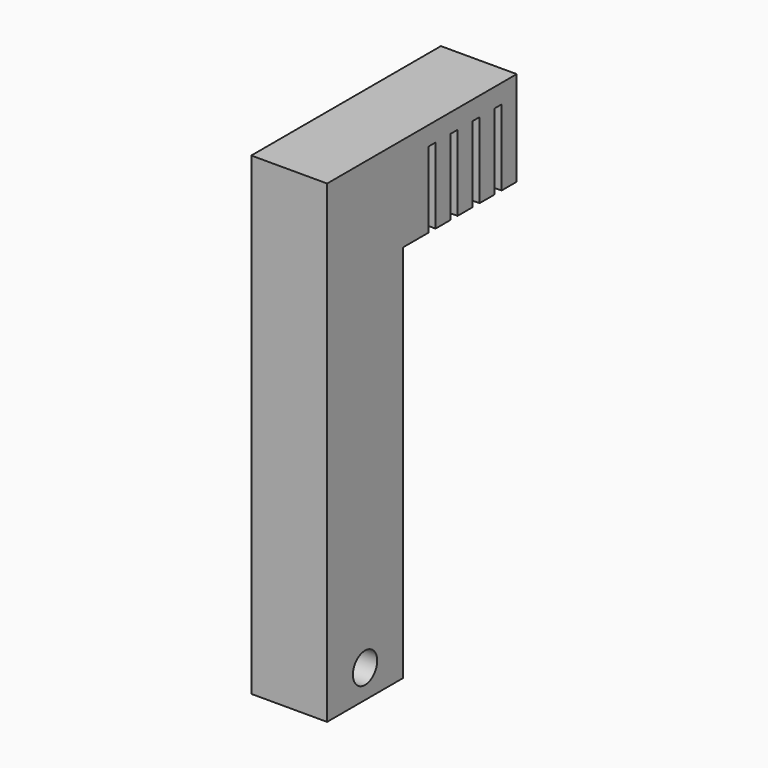
from build123d import *

# Parameters (mm, degrees)
F0_W     = 8
F0_H     = 25
F1_DEPTH = 10
F2_W     = 8
F2_H     = 0.9
F3_DEPTH = 8
F4_W     = 8
F4_H     = 10
F5_DEPTH = 40
F6_R     = 1.6
F7_DEPTH = 8.001


with BuildPart() as f1:
    # F0 (on Top) → F1 (new body)
    with BuildSketch(Plane.XY):
        Rectangle(F0_W, F0_H)
    extrude(amount=F1_DEPTH)

    # F2 (on face) → F3 (cut)
    with BuildSketch(Plane(origin=(0, 0, 0), x_dir=(1, 0, 0), z_dir=(0, 0, -1))):
        with Locations((0, -10.05)):
            Rectangle(F2_W, F2_H)
        with Locations((0, -7.15)):
            Rectangle(F2_W, F2_H)
        with Locations((0, -4.25)):
            Rectangle(F2_W, F2_H)
        with Locations((0, -1.35)):
            Rectangle(F2_W, F2_H)
    extrude(amount=-F3_DEPTH, mode=Mode.SUBTRACT)

    # F4 (on face) → F5 (join)
    with BuildSketch(Plane(origin=(0, 0, 0), x_dir=(1, 0, 0), z_dir=(0, 0, -1))):
        with Locations((0, 7.5)):
            Rectangle(F4_W, F4_H)
    extrude(amount=F5_DEPTH)

    # F6 (on face) → F7 (cut, through all)
    with BuildSketch(Plane(origin=(-4, 0, 0), x_dir=(0, -1, 0), z_dir=(-1, 0, 0))):
        with Locations((7.5, -37)):
            Circle(F6_R)
    extrude(amount=-F7_DEPTH, mode=Mode.SUBTRACT)


solid = f1.part
